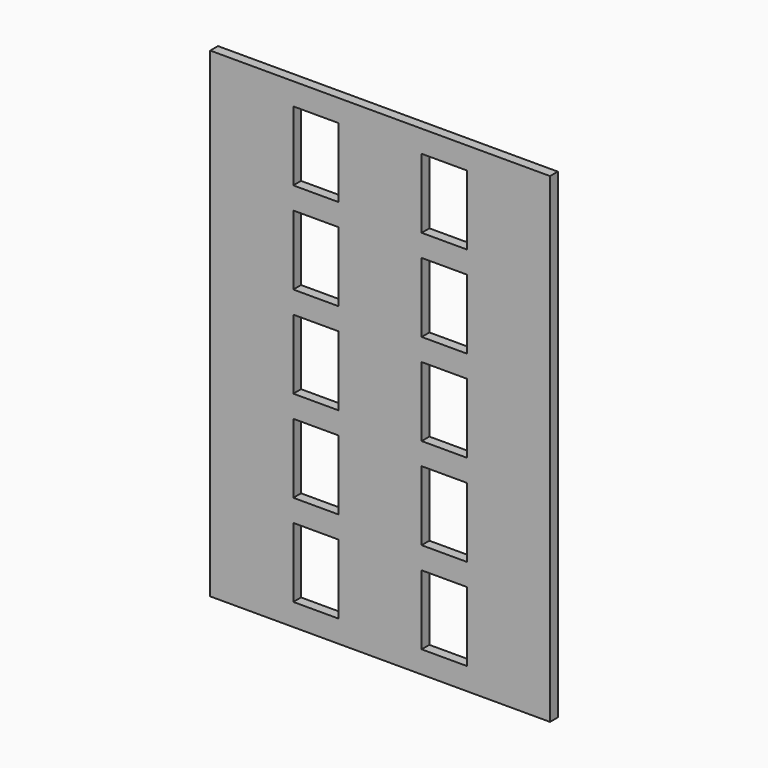
from build123d import *

# Parameters (mm, degrees)
F0_W     = 210
F0_H     = 297
F0_W_2   = 28
F0_H_2   = 43
F1_DEPTH = 6


with BuildPart() as f1:
    # F0 (on Front) → F1 (new body)
    with BuildSketch(Plane.XZ):
        Rectangle(F0_W, F0_H)
        with Locations((-39.67, -113.3)):
            Rectangle(F0_W_2, F0_H_2, mode=Mode.SUBTRACT)
        with Locations((-39.67, -56.64)):
            Rectangle(F0_W_2, F0_H_2, mode=Mode.SUBTRACT)
        with Locations((39.66, -113.3)):
            Rectangle(F0_W_2, F0_H_2, mode=Mode.SUBTRACT)
        with Locations((39.66, -56.64)):
            Rectangle(F0_W_2, F0_H_2, mode=Mode.SUBTRACT)
        with Locations((-39.67, 0.02)):
            Rectangle(F0_W_2, F0_H_2, mode=Mode.SUBTRACT)
        with Locations((-39.67, 56.68)):
            Rectangle(F0_W_2, F0_H_2, mode=Mode.SUBTRACT)
        with Locations((-39.67, 113.34)):
            Rectangle(F0_W_2, F0_H_2, mode=Mode.SUBTRACT)
        with Locations((39.66, 0.02)):
            Rectangle(F0_W_2, F0_H_2, mode=Mode.SUBTRACT)
        with Locations((39.66, 56.68)):
            Rectangle(F0_W_2, F0_H_2, mode=Mode.SUBTRACT)
        with Locations((39.66, 113.34)):
            Rectangle(F0_W_2, F0_H_2, mode=Mode.SUBTRACT)
    extrude(amount=F1_DEPTH)


solid = f1.part
